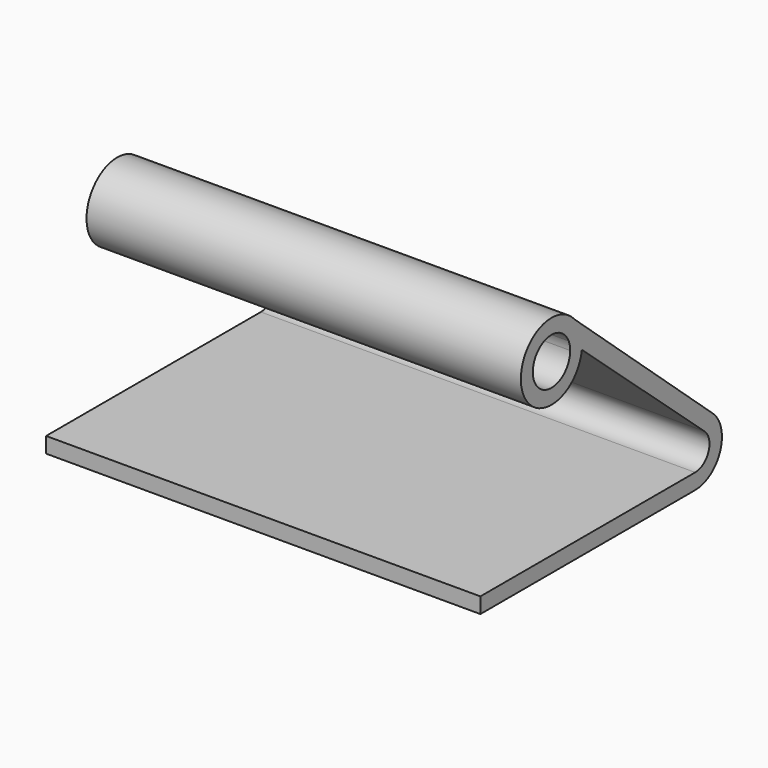
from build123d import *

# Parameters (mm, degrees)
F1_DEPTH = 94.3654105067
F2_DEPTH = 25.4


with BuildPart() as f1:
    # F0 (on Right) → F1 (new body)
    with BuildSketch(Plane.YZ):
        with BuildLine():
            Line((-39.9835929275, 0), (0, 0))
            Line((0, 0), (34.047730267, 0))
            ThreePointArc((34.047730267, 0), (42.6663665837, 5.9497380049), (40.1583202183, 16.1178242415))
            Line((40.1583202183, 16.1178242415), (-7.4729916735, 58.2961705104))
            ThreePointArc((-7.4729916735, 58.2961705104), (-5.570695265, 55.0765091724), (-4.9089710419, 51.3958744705))
            ThreePointArc((-4.9089710419, 51.3958744705), (-4.9342154485, 50.6658876775), (-5.0098280518, 49.939388722))
            Line((-5.0098280518, 49.939388722), (37.295550108, 12.9483202472))
            ThreePointArc((37.295550108, 12.9483202472), (38.6668473881, 7.4992614051), (34.047730267, 4.2998152785))
            Line((34.047730267, 4.2998152785), (0, 4.2998152785))
            Line((0, 4.2998152785), (-39.9835929275, 4.2998152785))
            Line((-39.9835929275, 4.2998152785), (-39.9835929275, 0))
        make_face()
        with BuildLine():
            ThreePointArc((-4.9089710419, 51.3958744705), (-5.570695265, 55.0765091724), (-7.4729916735, 58.2961705104))
            ThreePointArc((-7.4729916735, 58.2961705104), (-25.6119539634, 48.4083066672), (-5.0098280518, 49.939388722))
            ThreePointArc((-5.0098280518, 49.939388722), (-4.9342154485, 50.6658876775), (-4.9089710419, 51.3958744705))
        make_face()
        with BuildLine():
            ThreePointArc((-9.0356460446, 51.3958744705), (-21.7879990052, 50.1162425544), (-9.5441434252, 53.9041132503))
            ThreePointArc((-9.5441434252, 53.9041132503), (-9.164050414, 52.6755063865), (-9.0356460446, 51.3958744705))
        make_face(mode=Mode.SUBTRACT)
    extrude(amount=F1_DEPTH)

    # F2 (add): a face of the model
    f2_faces = [f1.faces().sort_by_distance(p)[0] for p in [
        (0, -2.9679313302, 1.0377729525),
    ]]
    extrude(f2_faces, amount=F2_DEPTH)


solid = f1.part
